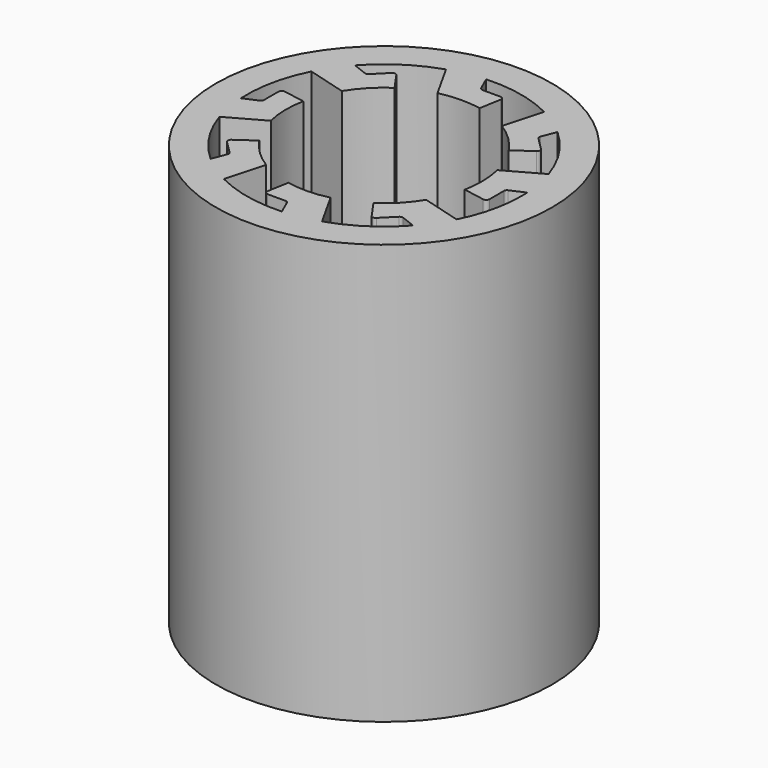
from build123d import *

# Parameters (mm, degrees)
F0_R     = 10.4
F1_DEPTH = 26


with BuildPart() as f1:
    # F0 (on Top) → F1 (new body)
    with BuildSketch(Plane.XY):
        with Locations((-0.02051, -0.492754)):
            Circle(F0_R)
        with BuildLine():
            ThreePointArc((5.65055, 5.838841), (7.10127, 4.147317), (8.062501, 2.136875))
            ThreePointArc((8.062501, 2.136875), (8.334835, 1.068726), (8.466648, -0.025685))
            ThreePointArc((8.466648, -0.025685), (8.476279, -0.259131), (8.47949, -0.492754))
            ThreePointArc((8.47949, -0.492754), (8.245001, -2.475514), (7.55447, -4.348877))
            ThreePointArc((7.55447, -4.348877), (6.991744, -5.296742), (6.311085, -6.163813))
            ThreePointArc((6.311085, -6.163813), (4.619561, -7.614533), (2.609119, -8.575764))
            ThreePointArc((2.609119, -8.575764), (1.540969, -8.848098), (0.446559, -8.979911))
            ThreePointArc((0.446559, -8.979911), (-1.775343, -8.809638), (-3.876633, -8.067733))
            ThreePointArc((-3.876633, -8.067733), (-4.824498, -7.505007), (-5.691569, -6.824348))
            ThreePointArc((-5.691569, -6.824348), (-7.142289, -5.132824), (-8.10352, -3.122382))
            ThreePointArc((-8.10352, -3.122382), (-8.375854, -2.054233), (-8.507667, -0.959822))
            ThreePointArc((-8.507667, -0.959822), (-8.337394, 1.26208), (-7.595489, 3.36337))
            ThreePointArc((-7.595489, 3.36337), (-7.032763, 4.311235), (-6.352104, 5.178306))
            ThreePointArc((-6.352104, 5.178306), (-4.66058, 6.629026), (-2.650138, 7.590257))
            ThreePointArc((-2.650138, 7.590257), (-1.581989, 7.862591), (-0.487578, 7.994404))
            ThreePointArc((-0.487578, 7.994404), (1.734324, 7.82413), (3.835614, 7.082226))
            ThreePointArc((3.835614, 7.082226), (4.783479, 6.5195), (5.65055, 5.838841))
        make_face(mode=Mode.SUBTRACT)
        with BuildLine():
            ThreePointArc((-5.906331, -1.892612), (-6.069387, -0.609324), (-5.955895, 0.679294))
            Line((-5.955895, 0.679294), (-7.282285, 0.913172))
            ThreePointArc((-7.282285, 0.913172), (-7.448003, 0.868768), (-7.52051, 0.713278))
            Line((-7.52051, 0.713278), (-7.52051, -0.393065))
            ThreePointArc((-7.52051, -0.393065), (-7.5535, -0.50399), (-7.641748, -0.578857))
            Line((-7.641748, -0.578857), (-8.507667, -0.959822))
            ThreePointArc((-8.507667, -0.959822), (-8.375854, -2.054233), (-8.10352, -3.122382))
            Line((-8.10352, -3.122382), (-5.906331, -1.892612))
        make_face()
        with BuildLine():
            ThreePointArc((-5.172264, 2.679301), (-4.380139, 3.702021), (-3.388698, 4.532961))
            Line((-3.388698, 4.532961), (-4.16122, 5.636236))
            ThreePointArc((-4.16122, 5.636236), (-4.309799, 5.722019), (-4.471018, 5.66334))
            Line((-4.471018, 5.66334), (-5.25332, 4.881038))
            ThreePointArc((-5.25332, 4.881038), (-5.355083, 4.82593), (-5.470423, 4.835391))
            Line((-5.470423, 4.835391), (-6.352104, 5.178306))
            ThreePointArc((-6.352104, 5.178306), (-7.032763, 4.311235), (-7.595489, 3.36337))
            Line((-7.595489, 3.36337), (-5.172264, 2.679301))
        make_face()
        with BuildLine():
            ThreePointArc((-1.420368, 5.393068), (-0.13708, 5.556123), (1.151538, 5.442632))
            Line((1.151538, 5.442632), (1.385416, 6.769021))
            ThreePointArc((1.385416, 6.769021), (1.341012, 6.93474), (1.185522, 7.007246))
            Line((1.185522, 7.007246), (0.079179, 7.007246))
            ThreePointArc((0.079179, 7.007246), (-0.031746, 7.040237), (-0.106613, 7.128485))
            Line((-0.106613, 7.128485), (-0.487578, 7.994404))
            ThreePointArc((-0.487578, 7.994404), (-1.581989, 7.862591), (-2.650138, 7.590257))
            Line((-2.650138, 7.590257), (-1.420368, 5.393068))
        make_face()
        with BuildLine():
            ThreePointArc((3.151545, 4.659), (4.174265, 3.866876), (5.005205, 2.875435))
            Line((5.005205, 2.875435), (6.10848, 3.647957))
            ThreePointArc((6.10848, 3.647957), (6.194263, 3.796536), (6.135584, 3.957754))
            Line((6.135584, 3.957754), (5.353282, 4.740057))
            ThreePointArc((5.353282, 4.740057), (5.298174, 4.84182), (5.307635, 4.95716))
            Line((5.307635, 4.95716), (5.65055, 5.838841))
            ThreePointArc((5.65055, 5.838841), (4.783479, 6.5195), (3.835614, 7.082226))
            Line((3.835614, 7.082226), (3.151545, 4.659))
        make_face()
        with BuildLine():
            ThreePointArc((5.865312, 0.907105), (5.988306, 0.211973), (6.02949, -0.492754))
            ThreePointArc((6.02949, -0.492754), (6.000769, -1.081573), (5.914876, -1.664801))
            Line((5.914876, -1.664801), (7.241265, -1.89868))
            ThreePointArc((7.241265, -1.89868), (7.406984, -1.854275), (7.47949, -1.698785))
            Line((7.47949, -1.698785), (7.47949, -0.592443))
            ThreePointArc((7.47949, -0.592443), (7.512481, -0.481518), (7.600728, -0.40665))
            Line((7.600728, -0.40665), (8.466648, -0.025685))
            ThreePointArc((8.466648, -0.025685), (8.334835, 1.068726), (8.062501, 2.136875))
            Line((8.062501, 2.136875), (5.865312, 0.907105))
        make_face()
        with BuildLine():
            Line((7.55447, -4.348877), (5.131244, -3.664808))
            ThreePointArc((5.131244, -3.664808), (4.33912, -4.687528), (3.347679, -5.518468))
            Line((3.347679, -5.518468), (4.120201, -6.621744))
            ThreePointArc((4.120201, -6.621744), (4.26878, -6.707526), (4.429998, -6.648847))
            Line((4.429998, -6.648847), (5.2123, -5.866545))
            ThreePointArc((5.2123, -5.866545), (5.314064, -5.811437), (5.429404, -5.820899))
            Line((5.429404, -5.820899), (6.311085, -6.163813))
            ThreePointArc((6.311085, -6.163813), (6.991744, -5.296742), (7.55447, -4.348877))
        make_face()
        with BuildLine():
            Line((2.609119, -8.575764), (1.379349, -6.378575))
            ThreePointArc((1.379349, -6.378575), (0.096061, -6.54163), (-1.192557, -6.428139))
            Line((-1.192557, -6.428139), (-1.426436, -7.754529))
            ThreePointArc((-1.426436, -7.754529), (-1.382031, -7.920247), (-1.226541, -7.992754))
            Line((-1.226541, -7.992754), (-0.120199, -7.992754))
            ThreePointArc((-0.120199, -7.992754), (-0.009274, -8.025744), (0.065594, -8.113992))
            Line((0.065594, -8.113992), (0.446559, -8.979911))
            ThreePointArc((0.446559, -8.979911), (1.540969, -8.848098), (2.609119, -8.575764))
        make_face()
        with BuildLine():
            Line((-3.876633, -8.067733), (-3.192564, -5.644508))
            ThreePointArc((-3.192564, -5.644508), (-4.215284, -4.852383), (-5.046224, -3.860942))
            Line((-5.046224, -3.860942), (-6.1495, -4.633464))
            ThreePointArc((-6.1495, -4.633464), (-6.235282, -4.782043), (-6.176604, -4.943262))
            Line((-6.176604, -4.943262), (-5.394301, -5.725564))
            ThreePointArc((-5.394301, -5.725564), (-5.339193, -5.827327), (-5.348655, -5.942667))
            Line((-5.348655, -5.942667), (-5.691569, -6.824348))
            ThreePointArc((-5.691569, -6.824348), (-4.824498, -7.505007), (-3.876633, -8.067733))
        make_face()
    extrude(amount=F1_DEPTH)


solid = f1.part
